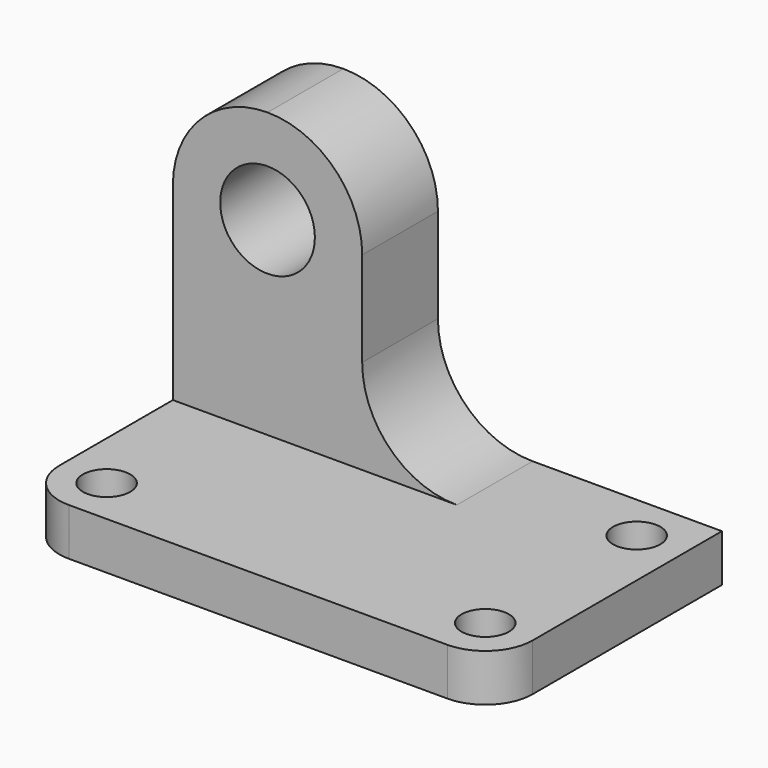
from build123d import *

# Parameters (mm, degrees)
F1_DEPTH = 38.1
F2_W     = 25.4
F2_H     = 38.1
F3_DEPTH = 38.1
F4_R     = 6.35
F5_DEPTH = 12.7
F6_R     = 3.175
F7_DEPTH = 6.35


with BuildPart() as f1:
    # F0 (on Front) → F1 (new body)
    with BuildSketch(Plane.XZ):
        Polygon((0, 44.45), (0, 0), (63.5, 0), (63.5, 6.35), (38.1, 6.35), (38.1, 44.45), align=None)
    extrude(amount=F1_DEPTH)

    # F2 (on face) → F3 (cut)
    with BuildSketch(Plane.YZ.offset(38.1)):
        with Locations((-25.4, 25.4)):
            Rectangle(F2_W, F2_H)
    extrude(amount=-F3_DEPTH, mode=Mode.SUBTRACT)

    # F4 (on face) → F5 (cut)
    with BuildSketch(Plane.XZ.offset(12.7)):
        with Locations((12.7, 31.75)):
            Circle(F4_R)
        with BuildLine():
            ThreePointArc((12.7, 44.45), (21.680256, 40.730256), (25.4, 31.75))
            Line((25.4, 31.75), (25.4, 19.05))
            ThreePointArc((25.4, 19.05), (29.119744, 10.069744), (38.1, 6.35))
            Line((38.1, 6.35), (38.1, 44.45))
            Line((38.1, 44.45), (12.7, 44.45))
        make_face()
        with BuildLine():
            ThreePointArc((0, 31.75), (3.719744, 40.730256), (12.7, 44.45))
            Line((12.7, 44.45), (0, 44.45))
            Line((0, 44.45), (0, 31.75))
        make_face()
    extrude(amount=-F5_DEPTH, mode=Mode.SUBTRACT)

    # F6 (on face) → F7 (cut)
    with BuildSketch(Plane.XY.offset(6.35)):
        with Locations((57.15, -31.75)):
            Circle(F6_R)
        with Locations((57.15, -6.35)):
            Circle(F6_R)
        with Locations((6.35, -31.75)):
            Circle(F6_R)
        with BuildLine():
            ThreePointArc((6.35, -38.1), (1.859872, -36.240128), (0, -31.75))
            Line((0, -31.75), (0, -38.1))
            Line((0, -38.1), (6.35, -38.1))
        make_face()
        with BuildLine():
            ThreePointArc((63.5, -31.75), (61.640128, -36.240128), (57.15, -38.1))
            Line((57.15, -38.1), (63.5, -38.1))
            Line((63.5, -38.1), (63.5, -31.75))
        make_face()
        with BuildLine():
            ThreePointArc((6.35, -38.1), (1.859872, -36.240128), (0, -31.75))
            Line((0, -31.75), (0, -38.1))
            Line((0, -38.1), (6.35, -38.1))
        make_face()
        with BuildLine():
            ThreePointArc((63.5, -31.75), (61.640128, -36.240128), (57.15, -38.1))
            Line((57.15, -38.1), (63.5, -38.1))
            Line((63.5, -38.1), (63.5, -31.75))
        make_face()
    extrude(amount=-F7_DEPTH, mode=Mode.SUBTRACT)


solid = f1.part
